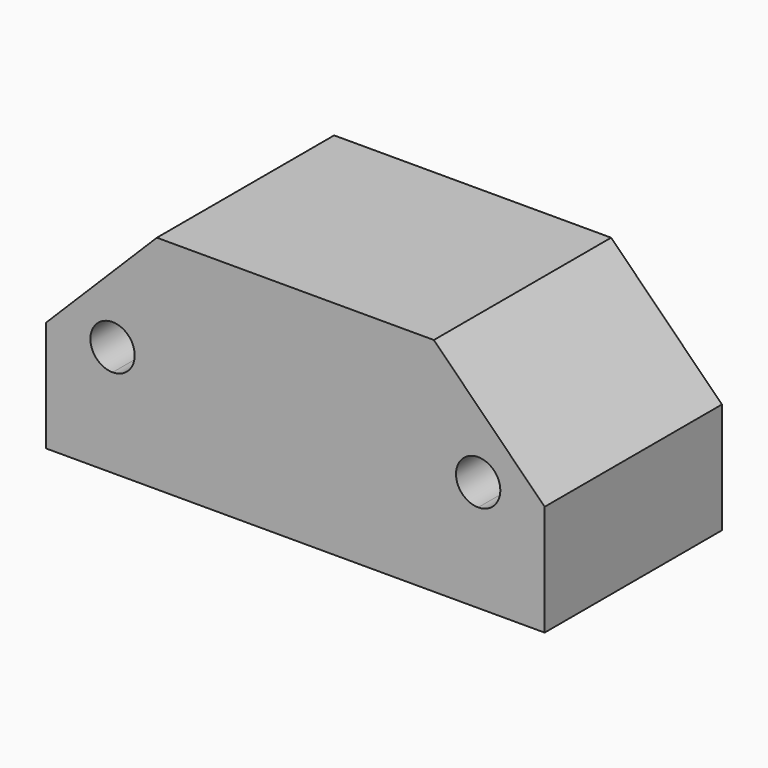
from build123d import *

# Parameters (mm, degrees)
F0_W     = 22.5
F0_H     = 10
F1_DEPTH = 10
F3_DEPTH = 25
F4_SIZE  = 5


with BuildPart() as f1:
    # F0 (on Top) → F1 (new body)
    with BuildSketch(Plane.XY):
        Rectangle(F0_W, F0_H)
    extrude(amount=F1_DEPTH)

    # F2 (on face) → F3 (cut)
    with BuildSketch(Plane.XZ.offset(5)):
        with BuildLine():
            ThreePointArc((-7.25, 5), (-8.957107, 5.707107), (-8.25, 4))
            ThreePointArc((-8.25, 4), (-7.542893, 4.292893), (-7.25, 5))
        make_face()
        with BuildLine():
            ThreePointArc((9.25, 5), (7.542893, 5.707107), (8.25, 4))
            ThreePointArc((8.25, 4), (8.957107, 4.292893), (9.25, 5))
        make_face()
    extrude(amount=-F3_DEPTH, mode=Mode.SUBTRACT)

    # F4
    f4_edges = [f1.edges().sort_by_distance(p)[0] for p in [
        (-11.25, 0, 10),
        (11.25, 0, 10),
    ]]
    chamfer(f4_edges, length=F4_SIZE)


solid = f1.part
